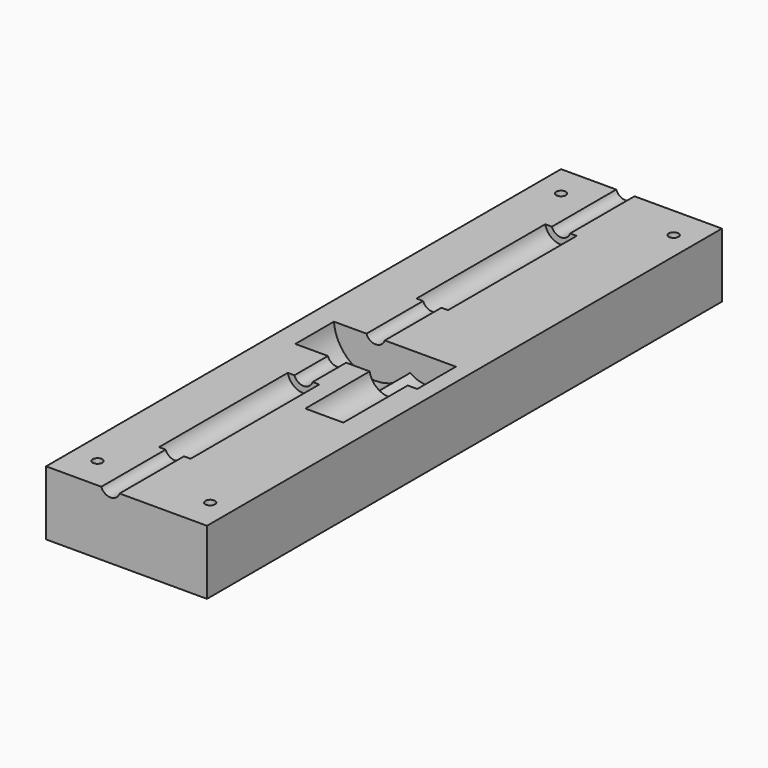
from build123d import *

# Parameters (mm, degrees)
SKETCH006_R     = 3.009992
PAD002_DEPTH    = 100
SKETCH011_R     = 5
PAD007_DEPTH    = 50
SKETCH010_R     = 5
PAD006_DEPTH    = 50
SKETCH008_R     = 13
PAD004_DEPTH    = 15
SKETCH009_R     = 9
PAD005_DEPTH    = 15
SKETCH013_R     = 6
PAD008_DEPTH    = 26
BOX001_W        = 50
BOX001_H        = 200
BOX001_DEPTH    = 20
SKETCH015_R     = 1.5
POCKET001_DEPTH = 434.247304
SKETCH016_R     = 1.5
POCKET002_DEPTH = 434.247304
SKETCH017_R     = 3
POCKET003_DEPTH = 5
SKETCH018_R     = 3
POCKET004_DEPTH = 5


with BuildPart() as pad002:
    # Sketch006 → Pad002 (new body, symmetric)
    with BuildSketch(Plane.XZ):
        Circle(SKETCH006_R)
    extrude(amount=PAD002_DEPTH, both=True)


with BuildPart() as pad007:
    # Sketch011 → Pad007 (new body)
    with BuildSketch(Plane.XZ.offset(-75)):
        Circle(SKETCH011_R)
    extrude(amount=PAD007_DEPTH)


with BuildPart() as scassi_perno:
    # Sketch010 → Pad006 (new body)
    with BuildSketch(Plane.XZ.offset(25)):
        Circle(SKETCH010_R)
    extrude(amount=PAD006_DEPTH)

    # Fusion002: union Pad007
    add(pad007.part)


with BuildPart() as scasso_ruota_dentata:
    # Sketch008 → Pad004 (new body)
    with BuildSketch(Plane.XZ.offset(-3)):
        Circle(SKETCH008_R)
    extrude(amount=PAD004_DEPTH)


with BuildPart() as obj1:
    # Sketch009 → Pad005 (new body)
    with BuildSketch(Plane.XZ.offset(-3)):
        with Locations((15.997087, 9e-06)):
            Circle(SKETCH009_R)
    extrude(amount=PAD005_DEPTH)

    # Fusion001: union scasso_ruota_dentata
    add(scasso_ruota_dentata.part)


with BuildPart() as fusion:
    # Sketch013 → Pad008 (new body)
    with BuildSketch(Plane.XZ.offset(11)):
        with Locations((16.059561, 9e-06)):
            Circle(SKETCH013_R)
    extrude(amount=PAD008_DEPTH)

    # Fusion005: union scassi_perno, obj1
    add(scassi_perno.part)
    add(obj1.part)

    # Fusion: union Pad002
    add(pad002.part)


with BuildPart() as obj2:
    # Box001 → Box001 (new body)
    with BuildSketch(Plane(origin=(-20, -100, -21), x_dir=(1, 0, 0), z_dir=(0, 0, 1))):
        with Locations((25, 100)):
            Rectangle(BOX001_W, BOX001_H)
    extrude(amount=BOX001_DEPTH)

    # Cut001: cut Fusion
    add(fusion.part, mode=Mode.SUBTRACT)

    # Sketch015 → Pocket001 (cut, through all)
    with BuildSketch(Plane(origin=(0, 0, -21), x_dir=(1, 0, 0), z_dir=(0, 0, -1))):
        with Locations((23, 90)):
            Circle(SKETCH015_R)
    pocket001 = extrude(amount=-POCKET001_DEPTH, mode=Mode.SUBTRACT)

    # Mirrored: Pocket001 across Sketch015 H_Axis
    add(pocket001.mirror(Plane(origin=(0, 0, -21), x_dir=(0, 0, -1), z_dir=(0, -1, 0))), mode=Mode.SUBTRACT)

    # Sketch016 → Pocket002 (cut, through all)
    with BuildSketch(Plane(origin=(0, 0, -21), x_dir=(1, 0, 0), z_dir=(0, 0, -1))):
        with Locations((-12, 90)):
            Circle(SKETCH016_R)
    pocket002 = extrude(amount=-POCKET002_DEPTH, mode=Mode.SUBTRACT)

    # Mirrored001: Pocket002 across Sketch016 H_Axis
    add(pocket002.mirror(Plane(origin=(0, 0, -21), x_dir=(0, 0, -1), z_dir=(0, -1, 0))), mode=Mode.SUBTRACT)

    # Sketch017 → Pocket003 (cut)
    with BuildSketch(Plane(origin=(0, 0, -21), x_dir=(1, 0, 0), z_dir=(0, 0, -1))):
        with Locations((23, 90)):
            Circle(SKETCH017_R)
    pocket003 = extrude(amount=-POCKET003_DEPTH, mode=Mode.SUBTRACT)

    # Mirrored002: Pocket003 across Sketch017 H_Axis
    add(pocket003.mirror(Plane(origin=(0, 0, -21), x_dir=(0, 0, -1), z_dir=(0, -1, 0))), mode=Mode.SUBTRACT)

    # Sketch018 → Pocket004 (cut)
    with BuildSketch(Plane(origin=(0, 0, -21), x_dir=(1, 0, 0), z_dir=(0, 0, -1))):
        with Locations((-12, 90)):
            Circle(SKETCH018_R)
    pocket004 = extrude(amount=-POCKET004_DEPTH, mode=Mode.SUBTRACT)

    # Mirrored003: Pocket004 across Sketch018 H_Axis
    add(pocket004.mirror(Plane(origin=(0, 0, -21), x_dir=(0, 0, -1), z_dir=(0, -1, 0))), mode=Mode.SUBTRACT)


solid = obj2.part
